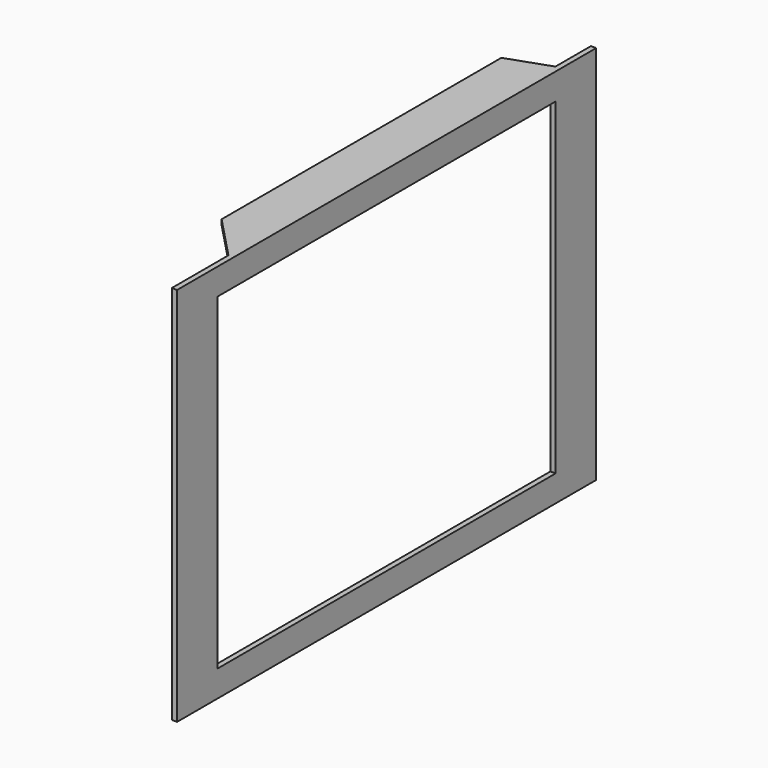
from build123d import *

# Parameters (mm, degrees)
F0_W     = 1.5875
F0_H     = 157.48
F1_DEPTH = 114.3
F2_W     = 127
F2_H     = 98.425
F3_DEPTH = 25.4
F5_DEPTH = 12.7
F7_DEPTH = 25.4


with BuildPart() as f1:
    # F0 (on Top) → F1 (new body)
    with BuildSketch(Plane.XY):
        Rectangle(F0_W, F0_H)
    extrude(amount=F1_DEPTH)

    # F2 (on face) → F3 (cut)
    with BuildSketch(Plane.YZ.offset(0.79375)):
        with Locations((0, 57.15)):
            Rectangle(F2_W, F2_H)
    extrude(amount=-F3_DEPTH, mode=Mode.SUBTRACT)

    # F4 (on face) → F5 (join)
    with BuildSketch(Plane(origin=(-0.79375, 0, 0), x_dir=(0, -1, 0), z_dir=(-1, 0, 0))):
        Polygon((54.925282, 114.3), (-62.818468, 114.3), (-65.392531, 114.3), (-65.392531, 112.7125), (-62.818468, 112.7125), (54.925282, 112.7125), (57.457466, 112.7125), (57.457466, 114.3), align=None)
    extrude(amount=F5_DEPTH)

    # F6 (on face) → F7 (cut)
    with BuildSketch(Plane.XY.offset(114.3)):
        Polygon((-0.79375, 65.392531), (-13.49375, 65.392531), (-13.49375, 60.951576), align=None)
        Polygon((-13.49375, -44.144154), (-13.49375, -57.457466), (-0.79375, -57.457466), align=None)
    extrude(amount=-F7_DEPTH, mode=Mode.SUBTRACT)


solid = f1.part
